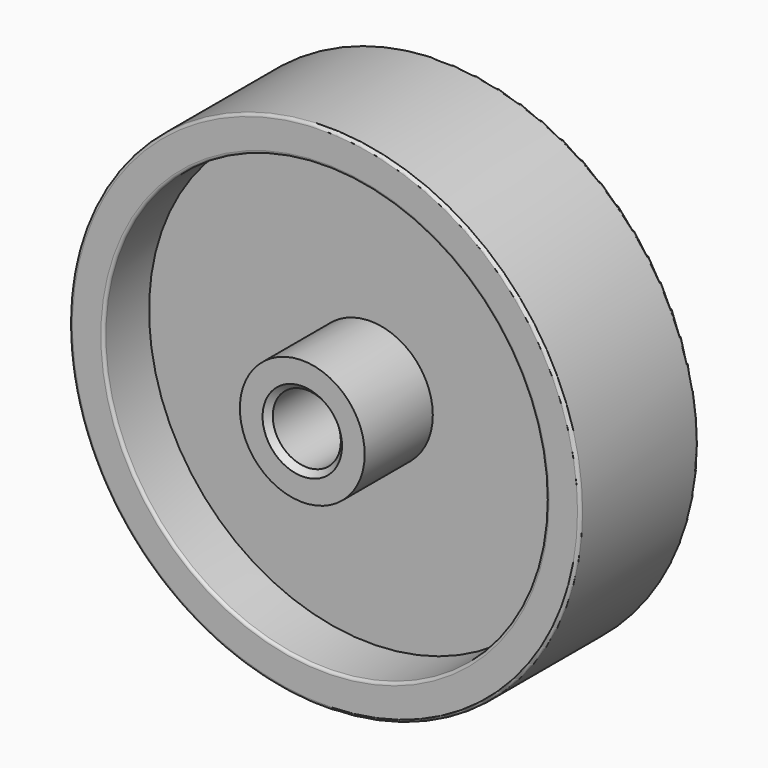
from build123d import *

# Parameters (mm, degrees)
F0_R          = 22.5
F1_DEPTH      = 13
F2_R          = 19.5
F3_DEPTH      = 5
F4_R          = 19.5
F5_DEPTH      = 5
F6_R          = 0.25
F7_R          = 5.5
F7_R_2        = 3
F8_DEPTH      = 7.5
F8_DEPTH_BACK = 10.5
F9_R          = 3
F10_DEPTH     = 25
F11_SIZE      = 0.5


with BuildPart() as f1:
    # F0 (on Front) → F1 (new body)
    with BuildSketch(Plane.XZ):
        Circle(F0_R)
    extrude(amount=F1_DEPTH)

    # F2 (on face) → F3 (cut)
    with BuildSketch(Plane(origin=(0, 0, 0), x_dir=(-1, 0, 0), z_dir=(0, 1, 0))):
        Circle(F2_R)
    extrude(amount=-F3_DEPTH, mode=Mode.SUBTRACT)

    # F4 (on face) → F5 (cut)
    with BuildSketch(Plane.XZ.offset(13)):
        Circle(F4_R)
    extrude(amount=-F5_DEPTH, mode=Mode.SUBTRACT)

    # F6
    f6_edges = [f1.edges().sort_by_distance(p)[0] for p in [
        (-22.5, -13, 0),
        (-22.5, 0, 0),
        (-19.5, -13, 0),
        (19.5, 0, 0),
    ]]
    fillet(f6_edges, radius=F6_R)

    # F7 (on face) → F8 (join, two sides)
    with BuildSketch(Plane.XZ.offset(8)) as f8_sk:
        Circle(F7_R)
        Circle(F7_R_2, mode=Mode.SUBTRACT)
    extrude(amount=F8_DEPTH)
    extrude(f8_sk.sketch, amount=-F8_DEPTH_BACK)

    # F9 (on face) → F10 (cut)
    with BuildSketch(Plane.XZ.offset(15.5)):
        Circle(F9_R)
    extrude(amount=-F10_DEPTH, mode=Mode.SUBTRACT)

    # F11
    f11_edges = [f1.edges().sort_by_distance(p)[0] for p in [
        (-3, -15.5, 0),
        (-3, 2.5, 0),
    ]]
    chamfer(f11_edges, length=F11_SIZE)


solid = f1.part
